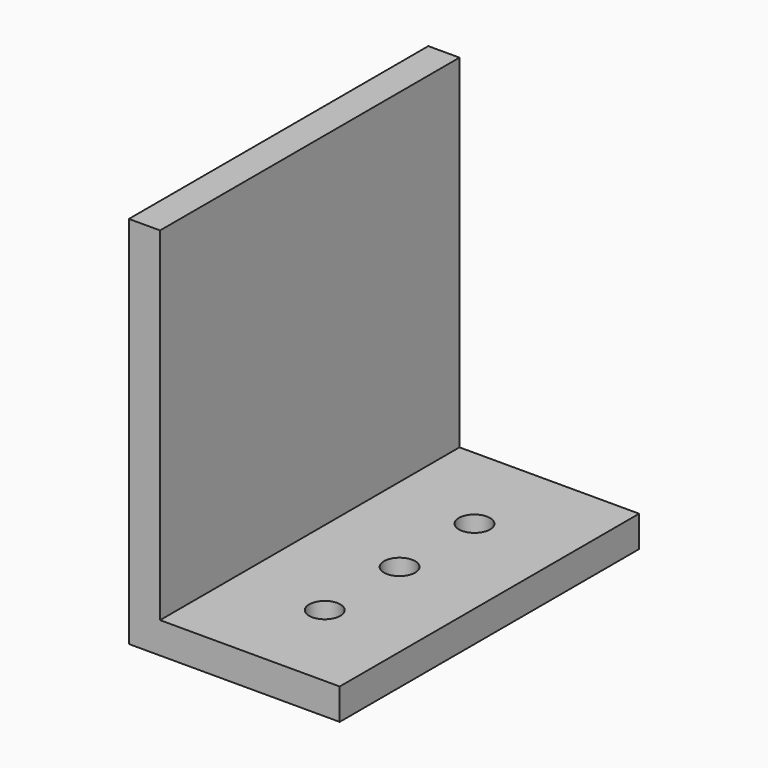
from build123d import *

# Parameters (mm, degrees)
F1_DEPTH = 76.2
F2_R     = 3.175
F3_DEPTH = 6.351


with BuildPart() as f1:
    # F0 (on Front) → F1 (new body)
    with BuildSketch(Plane.XZ):
        Polygon((0, 76.2), (0, 0), (42.919317, 0), (42.919317, 6.35), (6.35, 6.35), (6.35, 76.2), align=None)
    extrude(amount=F1_DEPTH)

    # F2 (on face) → F3 (cut, through all)
    with BuildSketch(Plane.XY.offset(6.35)):
        with Locations((24.634659, -19.05)):
            Circle(F2_R)
        with Locations((24.634659, -38.1)):
            Circle(F2_R)
        with Locations((24.634659, -57.15)):
            Circle(F2_R)
    extrude(amount=-F3_DEPTH, mode=Mode.SUBTRACT)


solid = f1.part
